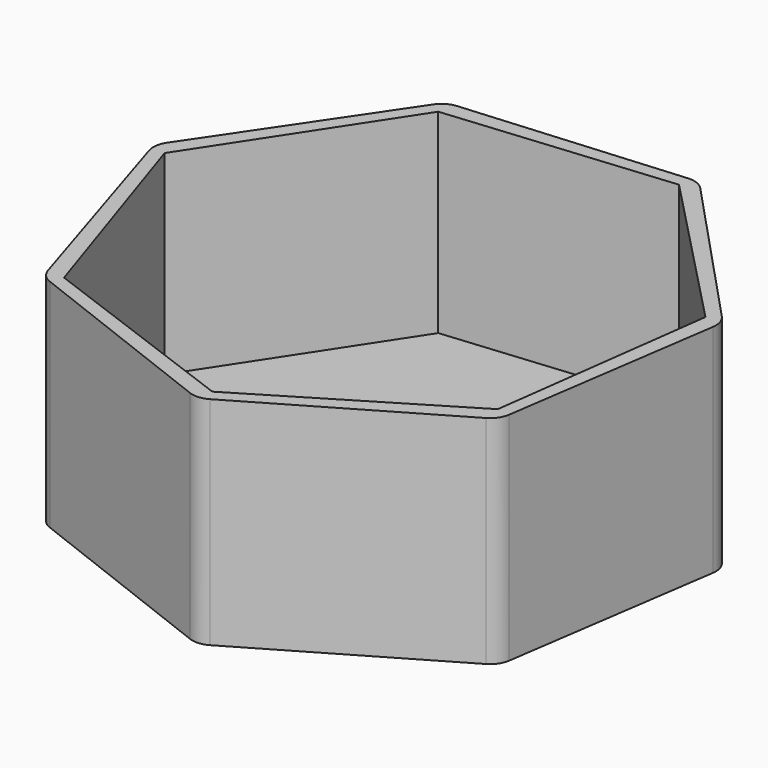
from build123d import *

# Parameters (mm, degrees)
F1_DEPTH = 50.8
F3_DEPTH = 45.72
F4_R     = 5.08


with BuildPart() as f1:
    # F0 (on Top) → F1 (new body)
    with BuildSketch(Plane.XY):
        Polygon((23.324189, 60.191778), (-32.517433, 55.764545), (-63.872765, 9.345472), (-47.130602, -44.110932), (5.101866, -64.350904), (53.492524, -36.133333), (61.602221, 19.293375), align=None)
    extrude(amount=F1_DEPTH)

    # F2 (on face) → F3 (cut)
    with BuildSketch(Plane.XY.offset(50.8)):
        Polygon((21.136437, 56.987757), (-31.37647, 52.056417), (-60.262255, 7.925533), (-43.769332, -42.173439), (5.68279, -60.514951), (50.855655, -33.287471), (57.733175, 19.006154), align=None)
    extrude(amount=-F3_DEPTH, mode=Mode.SUBTRACT)

    # F4
    f4_edges = [f1.edges().sort_by_distance(p)[0] for p in [
        (-63.872765, 9.345472, 25.4),
        (-32.517433, 55.764545, 25.4),
        (23.324189, 60.191778, 25.4),
        (61.602221, 19.293375, 25.4),
        (53.492524, -36.133333, 25.4),
        (-47.130602, -44.110932, 25.4),
        (5.101866, -64.350904, 25.4),
    ]]
    fillet(f4_edges, radius=F4_R)


solid = f1.part
